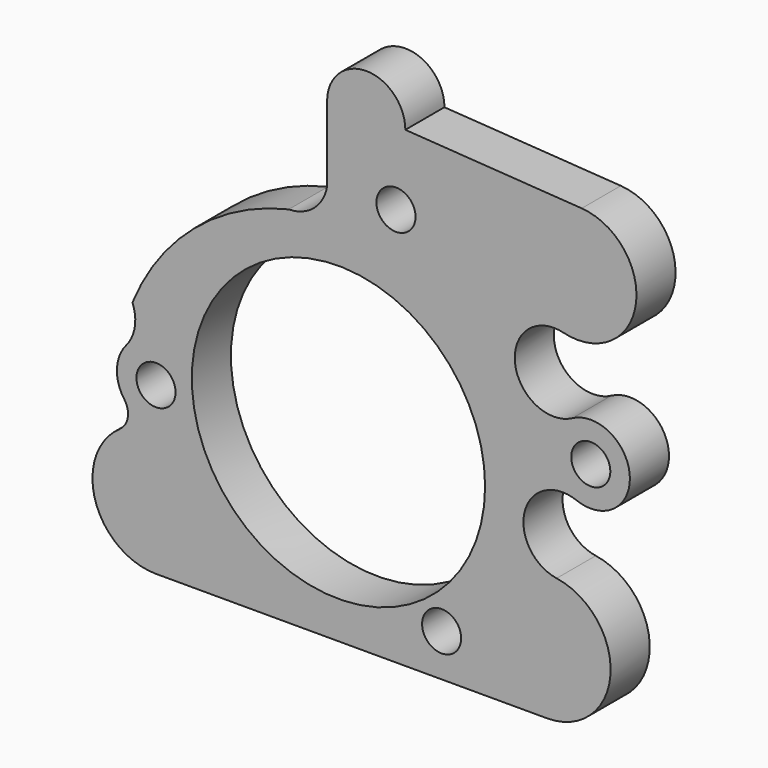
from build123d import *

# Parameters (mm, degrees)
F0_R     = 101.6
F0_R_2   = 762
F1_DEPTH = 254


with BuildPart() as f1:
    # F0 (on Front) → F1 (new body)
    with BuildSketch(Plane.XZ):
        with BuildLine():
            ThreePointArc((-164.463614, 414.060317), (-146.517042, 337.453755), (-188.649439, 271.004482))
            ThreePointArc((-188.649439, 271.004482), (-315.053741, -98.859395), (0, -330.2))
            Line((0, -330.2), (2032, -330.2))
            ThreePointArc((2032, -330.2), (2361.258714, -24.914642), (2081.687238, 326.440222))
            ThreePointArc((2081.687238, 326.440222), (1915.9122, 579.63531), (2185.680473, 716.800155))
            ThreePointArc((2185.680473, 716.800155), (2461.918797, 918.664784), (2163.161546, 1085.401237))
            ThreePointArc((2163.161546, 1085.401237), (1865.540032, 1239.770817), (2116.988711, 1461.54118))
            ThreePointArc((2116.988711, 1461.54118), (2492.680719, 1709.383466), (2211.952756, 2061.181837))
            Line((2211.952756, 2061.181837), (1295.559347, 2122.411542))
            ThreePointArc((1295.559347, 2122.411542), (1095.953564, 2325.579752), (889.286497, 2129.598852))
            Line((889.286497, 2129.598852), (889.286497, 2115.224233))
            Line((889.286497, 2115.224233), (889.286497, 1732.403011))
            ThreePointArc((889.286497, 1732.403011), (820.905104, 1610.454132), (689.924538, 1561.549783))
            ThreePointArc((689.924538, 1561.549783), (199.465703, 1315.718835), (-122.467406, 871.487141))
            ThreePointArc((-122.467406, 871.487141), (-110.136355, 763.321554), (-155.407756, 664.31474))
            ThreePointArc((-155.407756, 664.31474), (-203.067088, 540.748308), (-164.463614, 414.060317))
        make_face()
        with Locations((0, 533.4)):
            Circle(F0_R, mode=Mode.SUBTRACT)
        with Locations((947.997367, 625.519003)):
            Circle(F0_R_2, mode=Mode.SUBTRACT)
        with Locations((1484.071851, -109.868191)):
            Circle(F0_R, mode=Mode.SUBTRACT)
        with Locations((2259.096945, 906.273799)):
            Circle(F0_R, mode=Mode.SUBTRACT)
        with Locations((1246.977069, 1741.326441)):
            Circle(F0_R, mode=Mode.SUBTRACT)
    extrude(amount=F1_DEPTH)


solid = f1.part
